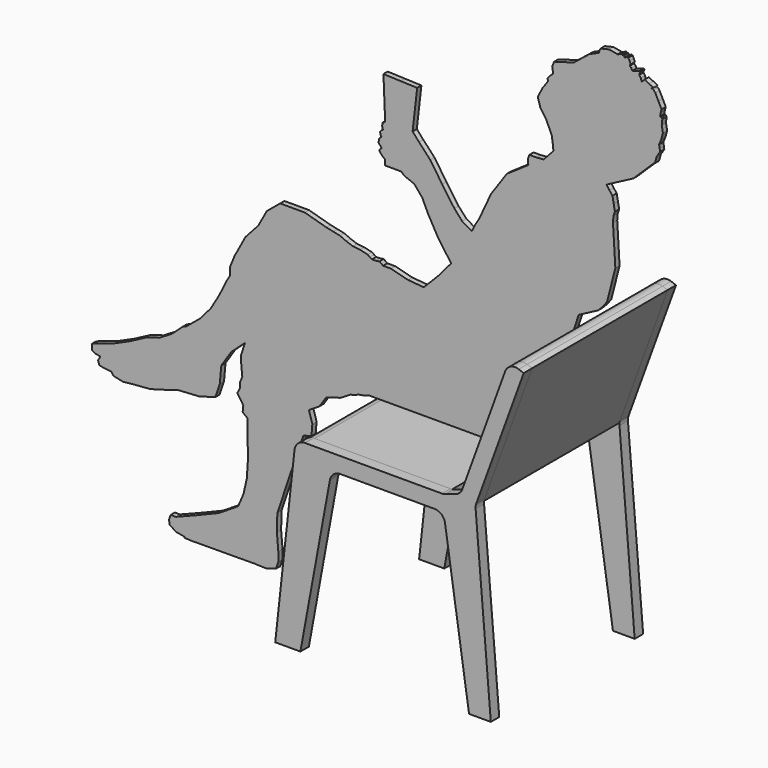
from build123d import *

# Parameters (mm, degrees)
F1_DEPTH      = 6.35
F1_DEPTH_BACK = 6.35
F2_W          = 355.6
F2_H          = 38.1
F3_DEPTH      = 203.2
F3_DEPTH_BACK = 203.2
F6_DEPTH      = 25.4
F7_R          = 25.4
F7_2_R        = 25.4
F7_3_R        = 25.4


with BuildPart() as f1:
    # F0 (on Front) → F1 (new body, two sides)
    with BuildSketch(Plane.XZ) as f1_sk:
        Polygon((214.8580436121, 454.5577741493), (230.0406142121, 462.1293363493), (234.8783236121, 467.8542677493), (240.1709724121, 473.2283743493), (249.0880996121, 499.1646699493), (246.3966394121, 524.6545859493), (255.6972050121, 529.3751505493), (265.0277426121, 534.1159081493), (269.4337282121, 542.9730913493), (273.8760104121, 551.7773409493), (311.7151016121, 666.3334237493), (349.5542182121, 780.8895065493), (372.8224978121, 793.0867135493), (396.0907774121, 805.2839459493), (407.8291080121, 817.4581151493), (417.8222808121, 830.6855715493), (437.5439076121, 908.4570949493), (431.8879626121, 1002.3540877493), (432.9306072121, 1016.3834729493), (436.5025076121, 1027.0389253493), (433.5931662121, 1043.0023173493), (430.6846630121, 1058.9216657493), (423.5897572121, 1067.8635833493), (416.6285824121, 1078.0207385493), (480.9449638121, 1111.8077931493), (529.3737722121, 1159.2893593493), (531.8231704121, 1160.0325125493), (532.6175046121, 1161.3172445493), (536.3577308121, 1175.5107137493), (544.9589074121, 1188.9216851493), (543.9082110121, 1196.3152695493), (542.6110584121, 1203.6139087493), (548.0223506121, 1216.6283353493), (551.6942508121, 1230.9694039493), (548.9259810121, 1246.3287077493), (550.3933644121, 1259.9217463493), (548.0344918121, 1262.6710931493), (544.8887018121, 1263.5450563493), (546.3640608121, 1272.1358443493), (548.5236196121, 1279.6852323493), (541.0269874121, 1294.7778615493), (533.4647470121, 1309.9591875493), (529.2568814121, 1314.7847049493), (524.2762208121, 1317.0504103493), (526.7587914121, 1318.0067965493), (529.2413620121, 1318.9631827493), (518.2964512121, 1324.3692679493), (507.9588036121, 1329.5867073493), (504.4282544121, 1326.1266685493), (500.7295318121, 1322.7767387493), (498.5172172121, 1330.0922943493), (495.1202974121, 1335.2691953493), (495.6912640121, 1339.0136125493), (497.4649460121, 1341.9164007493), (496.7314956121, 1342.8926243493), (496.0215148121, 1343.8130441493), (485.8728178121, 1340.8545537493), (478.3009254121, 1338.5585715493), (476.0227740121, 1343.1576225493), (472.5960346121, 1347.1569287493), (472.2481816121, 1349.5971575493), (474.3241998121, 1351.0510535493), (471.6238242121, 1356.9731905493), (468.9198418121, 1362.9096785493), (467.8146370121, 1363.7014219493), (466.7131152121, 1364.4886695493), (463.4354992121, 1362.3769897493), (460.1112488121, 1360.2944945493), (459.6322302121, 1362.5803675493), (459.1695438121, 1364.8135609493), (456.5233718121, 1364.2248651493), (453.9006694121, 1363.5803655493), (453.8524094121, 1364.8186155493), (453.7504538121, 1366.0380949493), (448.8123382121, 1363.9166107493), (443.1265228121, 1361.9453167493), (422.6039832121, 1365.5480527493), (401.8462904121, 1360.6958145493), (399.4575474121, 1355.3526451493), (397.7172918121, 1350.1983501493), (386.1331392121, 1344.9249545493), (374.5872644121, 1339.7154653493), (355.1703106121, 1324.1371627493), (337.0291480121, 1309.6497901493), (312.5462404121, 1303.0663387493), (290.5281234121, 1296.6148657493), (285.9279294121, 1284.9469947493), (288.2640436121, 1270.3796375493), (280.7933702121, 1263.8697191493), (274.6143630121, 1256.9455013493), (275.3611738121, 1253.8905417493), (276.1405982121, 1250.9090643493), (262.6831194121, 1231.9884519493), (251.1750398121, 1209.3850935493), (254.2177312121, 1199.4336021493), (257.2736814121, 1189.5343839493), (272.6335948121, 1166.3964825493), (284.9160188121, 1138.6769545493), (287.4395342121, 1122.0025657493), (288.8978498121, 1107.4452415493), (277.2134942121, 1094.6583735493), (265.5291132121, 1081.8715055493), (247.6729640121, 1080.4642947493), (231.0831572121, 1080.5009977493), (227.6519728121, 1070.3321077493), (228.5256566121, 1058.0455181493), (202.7547912121, 1040.3092823493), (177.0829350121, 1022.8179279493), (139.1578902121, 968.1346235493), (109.9302372121, 904.7474503493), (100.7046524121, 890.2664277493), (93.1827980121, 874.1917329493), (69.9939696121, 887.6867021493), (51.0855492121, 908.5815803493), (21.7839060121, 950.2955685493), (-7.0500469879, 992.7174293493), (-33.8636077879, 1021.4948419493), (-49.2022613879, 1038.6524657493), (-43.7239131879, 1086.5569165493), (-38.2455649879, 1134.4613673493), (-78.7077141879, 1135.9457941493), (-119.1698633879, 1137.4302463493), (-117.1127681879, 1087.3889951493), (-115.0556729879, 1037.3477693493), (-117.6390561879, 1035.8888695493), (-121.9830403879, 1033.5331973493), (-122.1138503879, 1025.8242719493), (-120.3373743879, 1018.9791243493), (-124.3720373879, 1016.5522305493), (-127.2623033879, 1012.8782475493), (-126.4024879879, 1007.0359681493), (-124.2497617879, 1002.9579219493), (-129.3810951879, 997.5138891493), (-131.1380131879, 988.4038489493), (-127.3213075879, 983.8187171493), (-123.5064053879, 979.2904305493), (-126.9110975879, 976.2399921493), (-129.6097459879, 972.3826211493), (-121.4083907879, 962.6090059493), (-115.8772613879, 958.5719045493), (-115.5245315879, 951.9268835493), (-115.1717763879, 945.2818879493), (-95.8736945879, 945.2698229493), (-76.5755873879, 945.2577579493), (-73.7131089879, 942.6569249493), (-68.9415411879, 938.3523869493), (-57.0793601879, 933.8057615493), (-45.2740497879, 929.2169721493), (-26.0019013879, 906.1522481493), (-12.3342121879, 877.2042745493), (13.0345458121, 832.1797519493), (43.4172638121, 790.0363259493), (13.9099314121, 755.1552933493), (-22.3499147879, 718.1633683493), (-60.2728513879, 721.3846725493), (-100.9888481879, 731.8958529493), (-110.5741985879, 731.8958529493), (-120.1595489879, 731.8958529493), (-124.3146079879, 735.0226945493), (-128.5320493879, 738.1385379493), (-137.4657373879, 736.9327491493), (-146.8395565879, 736.5320133493), (-151.8837933879, 740.0076223493), (-156.8968389879, 743.4373843493), (-175.4452143879, 747.7434463493), (-192.8492181879, 749.5406995493), (-208.3764921879, 755.0654281493), (-223.4049355879, 761.7473553493), (-239.8228859879, 765.2299747493), (-256.2665157879, 768.7089365493), (-307.9326303879, 783.2284655493), (-367.1068325879, 783.2654479493), (-399.1746373879, 756.7214573493), (-419.8849083879, 718.9629603493), (-435.2801277879, 702.0293645493), (-450.4406257879, 685.2993497493), (-463.7818487879, 660.5241643493), (-477.1230971879, 635.6903049493), (-482.5215623879, 622.2292447493), (-487.9237105879, 608.8709021493), (-487.4673741879, 600.5033039493), (-487.0972199879, 592.0476439493), (-491.2954081879, 585.1212163493), (-495.5504161879, 578.2956267493), (-513.4144393879, 541.6952681493), (-533.7744189879, 507.1489059493), (-560.3205685879, 476.6323045493), (-591.7926417879, 450.6345155493), (-596.8273789879, 448.2971567493), (-601.7741051879, 446.0203261493), (-627.4812419879, 422.7758717493), (-657.5622841879, 404.7838071493), (-673.7020791879, 400.5675849493), (-689.7245261879, 394.8438981493), (-727.6569369879, 374.8216623493), (-768.4392531879, 356.5636597493), (-794.4285077879, 348.3342121493), (-818.9505821879, 339.7379631493), (-818.9505821879, 332.8631737493), (-818.9505821879, 325.9883589493), (-810.3118643879, 321.4955561493), (-799.0341119879, 319.1612707493), (-804.3552595879, 309.4490727493), (-801.2274781879, 300.0468055493), (-787.6600681879, 297.3971029493), (-773.0949969879, 296.1540015493), (-769.9791535879, 292.5148673493), (-767.6592191879, 288.5859699493), (-744.6030549879, 283.5817889493), (-720.3144827879, 286.2360889493), (-699.6210265879, 287.8108381493), (-678.9238873879, 289.3855619493), (-644.4310175879, 299.2013665493), (-610.9633171879, 309.1602239493), (-562.4521873879, 312.0397965493), (-522.9786823879, 322.9758427493), (-512.1205887879, 354.8889615493), (-508.4221709879, 394.8438981493), (-484.5037529879, 431.3525627493), (-451.9273385879, 460.5548411493), (-456.8920733879, 444.9157055493), (-461.8256677879, 429.1775099493), (-460.0797733879, 406.9530433493), (-458.0697697879, 387.1364967493), (-461.0783489879, 379.9184517493), (-464.1730849879, 372.5848621493), (-463.0846441879, 361.9972785493), (-470.2397479879, 348.9907513493), (-462.3489331879, 338.2255709493), (-455.7198887879, 327.4750717493), (-456.1624837879, 320.2863637493), (-457.3679931879, 313.0554917493), (-451.5816445879, 308.4070885493), (-445.8264617879, 303.8613775493), (-445.8264617879, 286.6664665493), (-445.8264617879, 269.4715301493), (-444.1869171879, 221.5328909493), (-447.2715947879, 175.4006743493), (-455.1305833879, 140.6501469493), (-468.0072403879, 110.4330877493), (-513.9915019879, 81.1537711493), (-568.9858801879, 58.4766257493), (-593.3704389879, 48.9264289493), (-617.8099887879, 39.2863669493), (-623.9744417879, 39.2863669493), (-630.1388947879, 39.2863669493), (-633.7175007879, 29.1019321493), (-633.0707405879, 17.9638797493), (-616.7111593879, 7.6287467493), (-597.1550643879, 4.2313951493), (-597.1550643879, 3.0576865493), (-597.1550643879, 1.8839779493), (-581.3734601879, 0.9272615493), (-560.4568903879, 1.0819221493), (-494.2837943879, 1.4316039493), (-428.2574087879, 1.8839779493), (-399.8427843879, 0.8572845493), (-377.0051617879, 7.9897315493), (-371.5962825879, 24.5232265493), (-371.6452029879, 46.1917379493), (-374.9560421879, 85.6875695493), (-373.9535041879, 126.5349859493), (-342.8304777879, 219.1717069493), (-311.2379831879, 310.7080745493), (-301.7122211879, 313.4173909493), (-292.0672823879, 316.0680333493), (-289.9163849879, 342.0080627493), (-297.5054985879, 367.3006969493), (-297.5054985879, 368.4365341493), (-297.5054985879, 369.5723459493), (-273.0628753879, 384.7915179493), (-257.0123105879, 408.6521763493), (-240.4393947879, 414.4978339493), (-222.5442057879, 419.3183221493), (-209.9756761879, 426.9658049493), (-197.3484471879, 434.6132877493), (-196.2936359879, 434.3149647493), (-195.2406535879, 434.0606599493), (-192.5713675879, 435.1267995493), (-189.8048757879, 436.0755403493), (-178.0389861879, 440.6719751493), (-164.3914899879, 442.8073023493), (-158.5131425879, 445.2674955493), (-152.2386567879, 446.5925119493), (-152.2472165879, 446.6524305493), (-152.2557763879, 446.7123491493), (-151.5527551879, 446.7123491493), (-150.8497593879, 446.7123491493), (-146.1808837879, 446.8566211493), (-141.0736803879, 446.7221281493), (29.3008836121, 446.8541573493), (199.6754730121, 446.9862119493), align=None)
    extrude(amount=F1_DEPTH)
    extrude(f1_sk.sketch, amount=-F1_DEPTH_BACK)


with BuildPart() as f3:
    # F2 (on Front) → F3 (new body, two sides)
    with BuildSketch(Plane.XZ) as f3_sk:
        with Locations((25.4, 425.45)):
            Rectangle(F2_W, F2_H)
    extrude(amount=F3_DEPTH)
    extrude(f3_sk.sketch, amount=-F3_DEPTH_BACK)

    # F7
    f7_edges = [f3.edges().sort_by_distance(p)[0] for p in [
        (-152.4, 0, 444.5),
    ]]
    fillet(f7_edges, radius=F7_R)


with BuildPart() as f3b:
    # F2 (on Front) → F3, piece 2 (new body, two sides)
    with BuildSketch(Plane.XZ) as f3_2_sk:
        Polygon((395.2786490417, 762.8739716389), (359.4763601897, 775.9049390996), (243.5977111481, 457.5309674607), (279.4, 444.5), align=None)
    extrude(amount=F3_DEPTH)
    extrude(f3_2_sk.sketch, amount=-F3_DEPTH_BACK)

    # F7#3
    f7_3_edges = [f3b.edges().sort_by_distance(p)[0] for p in [
        (359.47636, 0, 775.904939),
    ]]
    fillet(f7_3_edges, radius=F7_3_R)


with BuildPart() as f6:
    # F5 (on offset) → F6 (new body)
    with BuildSketch(Plane.XZ.offset(203.2)):
        Polygon((316.3440227509, 0), (279.4, 444.5), (395.2786490417, 762.8739716389), (359.4763601897, 775.9049390996), (243.5977111481, 457.5309674607), (203.2, 444.5), (-152.4, 444.5), (-201.2257277966, 0), (-140.7537162304, 0), (-66.108584404, 406.4), (203.2, 406.4), (264.0878558159, 0), align=None)
        Polygon((316.3440227509, 0), (279.4, 444.5), (395.2786490417, 762.8739716389), (359.4763601897, 775.9049390996), (243.5977111481, 457.5309674607), (203.2, 444.5), (-152.4, 444.5), (-201.2257277966, 0), (-140.7537162304, 0), (-66.108584404, 406.4), (203.2, 406.4), (264.0878558159, 0), align=None)
        Polygon((316.3440227509, 0), (279.4, 444.5), (395.2786490417, 762.8739716389), (359.4763601897, 775.9049390996), (243.5977111481, 457.5309674607), (203.2, 444.5), (-152.4, 444.5), (-201.2257277966, 0), (-140.7537162304, 0), (-66.108584404, 406.4), (203.2, 406.4), (264.0878558159, 0), align=None)
    extrude(amount=F6_DEPTH)

    # F7#2
    f7_2_edges = [f6.edges().sort_by_distance(p)[0] for p in [
        (-152.4, -215.9, 444.5),
        (359.47636, -215.9, 775.904939),
        (203.2, -215.9, 444.5),
        (243.597711, -215.9, 457.530967),
        (279.4, -215.9, 444.5),
        (203.2, -215.9, 406.4),
        (-66.108584, -215.9, 406.4),
    ]]
    fillet(f7_2_edges, radius=F7_2_R)


with BuildPart() as f8_1:
    # F8: instance of F6
    add(f6.part.mirror(Plane.XZ))


solid = Compound([f1.part, f3.part, f3b.part, f6.part, f8_1.part])
